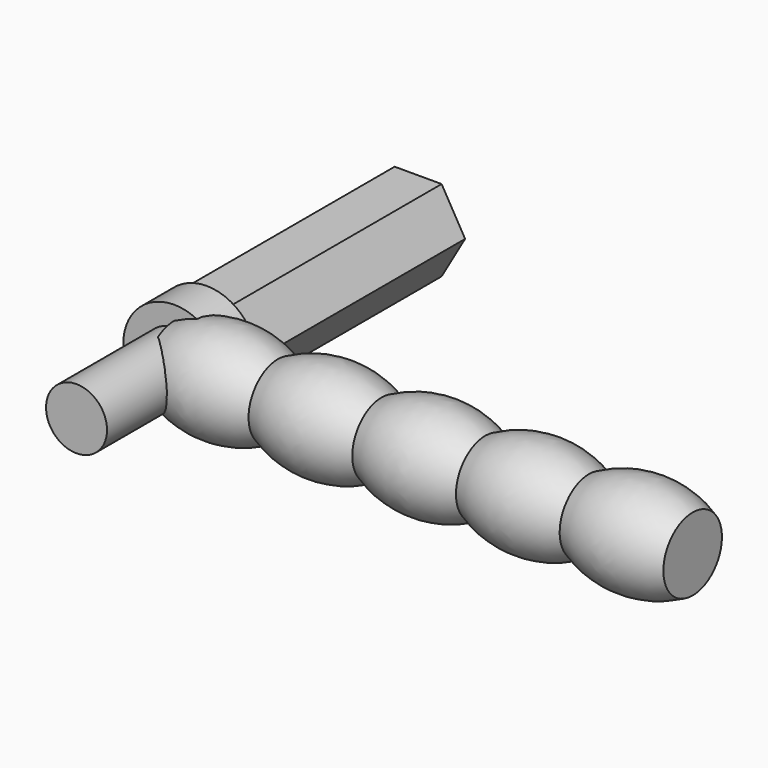
from build123d import *

# Parameters (mm, degrees)
F3_DEPTH  = 15
F4_R      = 1.5
F5_DEPTH  = 6
F9_DEPTH  = 1.75
F10_R     = 1.5
F11_DEPTH = 5.8


with BuildPart() as f1:
    # F0 (on Front) → F1 (revolve)
    with BuildSketch(Plane.XZ):
        with BuildLine():
            Line((0, 1.8), (0, 0))
            Line((0, 0), (25.5, 0))
            Line((25.5, 0), (25.5, 1.8))
            ThreePointArc((25.5, 1.8), (22.95, 2.4341757387), (20.4, 1.8))
            ThreePointArc((20.4, 1.8), (17.85, 2.4341757387), (15.3, 1.8))
            ThreePointArc((15.3, 1.8), (12.75, 2.4341757387), (10.2, 1.8))
            ThreePointArc((10.2, 1.8), (7.65, 2.4341757387), (5.1, 1.8))
            ThreePointArc((5.1, 1.8), (2.55, 2.4341757387), (0, 1.8))
        make_face()
    revolve(axis=Axis((18.2489338421, 0, 0), (1, 0, 0)))


with BuildPart() as f3:
    # F2 (on Front) → F3 (new body)
    with BuildSketch(Plane.XZ):
        Polygon((-1.1547005384, 2), (-2.3094010768, 0), (-1.1547005384, -2), (1.1547005384, -2), (2.3094010768, 0), (1.1547005384, 2), align=None)
    extrude(amount=-F3_DEPTH)

    # F4 (on face) → F5 (join)
    with BuildSketch(Plane.XZ):
        Circle(F4_R)
    extrude(amount=F5_DEPTH)

    # F10 (on face) → F11 (cut)
    with BuildSketch(Plane(origin=(0, 15, 0), x_dir=(-1, 0, 0), z_dir=(0, 1, 0))):
        Circle(F10_R)
    extrude(amount=-F11_DEPTH, mode=Mode.SUBTRACT)


with BuildPart() as f7:
    # F6 (on Right) → F7 (revolve)
    with BuildSketch(Plane.YZ):
        Polygon((0, 2.5), (0, 0), (6, 0), (6, 1.5), (2, 1.5), (2, 2.5), align=None)
    revolve(axis=Axis((0, 10.7707651332, 0), (0, 1, 0)))

    # F8 (on face) → F9 (cut)
    with BuildSketch(Plane.XZ):
        Polygon((-0.6535477052, -1.3571057934), (0.6535477052, -1.3571057934), (1.4685083635, -0.3351774511), (1.1776522721, 0.9391463483), (0, 1.5062737923), (-1.1776522721, 0.9391463483), (-1.4685083635, -0.3351774511), align=None)
    extrude(amount=-F9_DEPTH, mode=Mode.SUBTRACT)


solid = Compound([f1.part, f3.part, f7.part])
